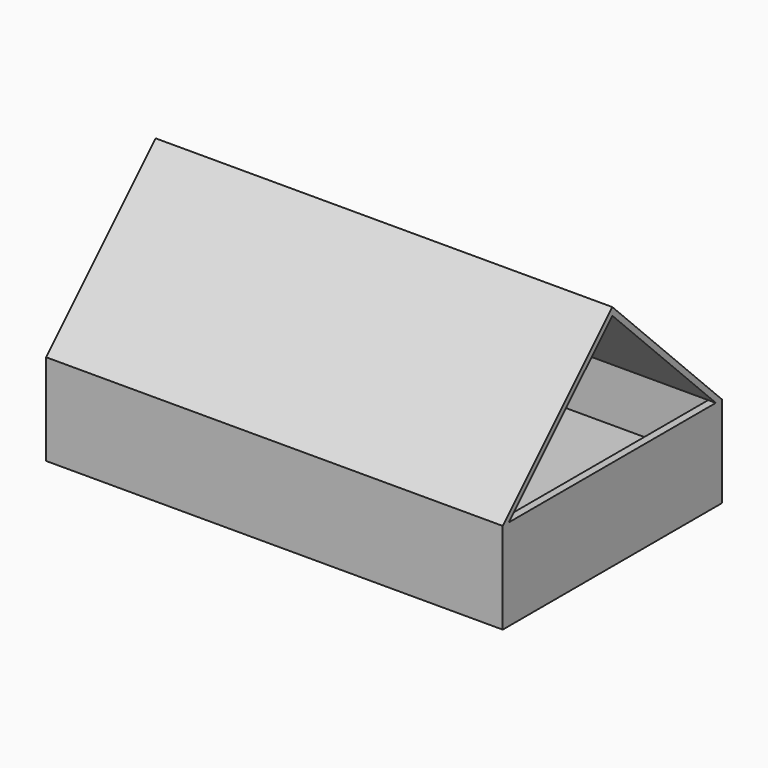
from build123d import *

# Parameters (mm, degrees)
F0_W      = 3048
F0_H      = 1828.8
F1_DEPTH  = 457.2
F2_W      = 2946.4
F2_H      = 1727.2
F3_DEPTH  = 355.6
F6_W      = 3048
F6_H      = 1828.8
F7_DEPTH  = 152.4
F8_DEPTH  = 3048
F10_DEPTH = 3048


with BuildPart() as f1:
    # F0 (on Top) → F1 (new body)
    with BuildSketch(Plane.XY):
        with Locations((6.109137, -442.111972)):
            Rectangle(F0_W, F0_H)
    extrude(amount=F1_DEPTH)

    # F2 (on face) → F3 (cut)
    with BuildSketch(Plane.XY.offset(457.2)):
        with Locations((6.109137, -442.111972)):
            Rectangle(F2_W, F2_H)
    extrude(amount=-F3_DEPTH, mode=Mode.SUBTRACT)

    # F6 (on face) → F7 (join)
    with BuildSketch(Plane(origin=(0, 0, 0), x_dir=(1, 0, 0), z_dir=(0, 0, -1))):
        with Locations((6.109137, 442.111972)):
            Rectangle(F6_W, F6_H)
    extrude(amount=F7_DEPTH)

    # F5 (on face) → F8 (join)
    with BuildSketch(Plane.YZ.offset(1530.109137)):
        Polygon((-442.111972, 1371.6), (-1356.511972, 457.2), (472.288028, 457.2), align=None)
    extrude(amount=-F8_DEPTH)

    # F9 (on face) → F10 (cut)
    with BuildSketch(Plane(origin=(-1517.890863, 0, 0), x_dir=(0, -1, 0), z_dir=(-1, 0, 0))):
        Polygon((442.111972, 1320.8), (-421.488028, 457.2), (1305.711972, 457.2), align=None)
    extrude(amount=-F10_DEPTH, mode=Mode.SUBTRACT)


solid = f1.part
